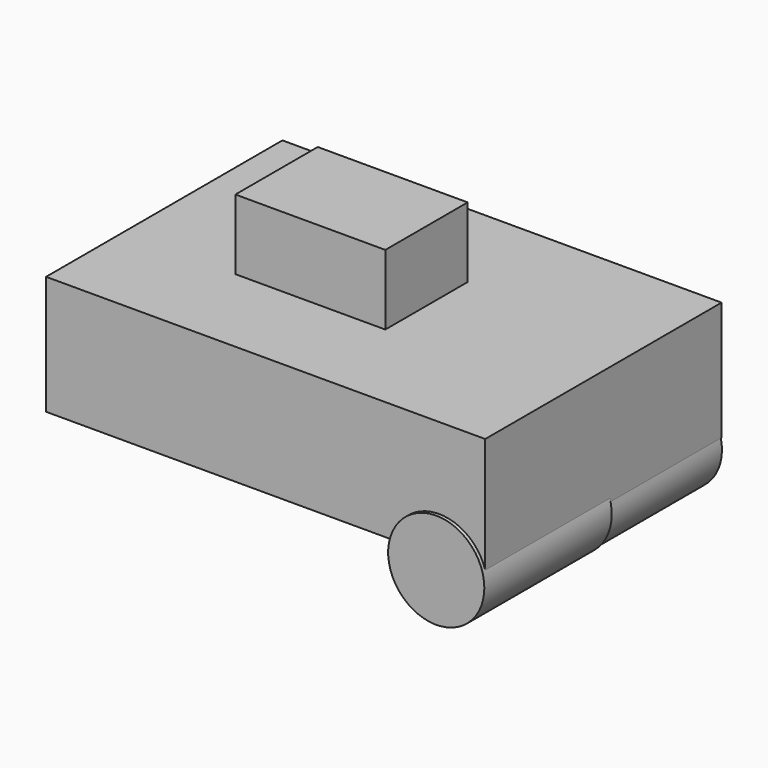
from build123d import *

# Parameters (mm, degrees)
F0_W     = 93.85059
F0_H     = 63.135851
F1_DEPTH = 25.4
F2_R     = 10.276796
F3_DEPTH = 34.036
F5_DEPTH = 29.718
F6_W     = 32.04192
F6_H     = 21.99327
F7_DEPTH = 14.986


with BuildPart() as f1:
    # F0 (on Top) → F1 (new body)
    with BuildSketch(Plane.XY):
        with Locations((9.290259, -1.706374)):
            Rectangle(F0_W, F0_H)
    extrude(amount=F1_DEPTH)

    # F2 (on Front) → F3 (join)
    with BuildSketch(Plane.XZ):
        with Locations((46.356503, -2.180367)):
            Circle(F2_R)
    extrude(amount=F3_DEPTH)

    # F4 (on face) → F5 (join)
    with BuildSketch(Plane(origin=(0, 0, 0), x_dir=(-1, 0, 0), z_dir=(0, 1, 0))):
        with BuildLine():
            ThreePointArc((-56.173078, 0), (-47.453229, -12.176184), (-36.300701, -2.180367))
            ThreePointArc((-36.300701, -2.180367), (-36.360687, -1.083641), (-36.539928, 0))
            Line((-36.539928, 0), (-56.173078, 0))
        make_face()
    extrude(amount=F5_DEPTH)

    # F6 (on face) → F7 (join)
    with BuildSketch(Plane.XY.offset(25.4)):
        with Locations((2.464763, -1.801173)):
            Rectangle(F6_W, F6_H)
    extrude(amount=F7_DEPTH)


solid = f1.part
